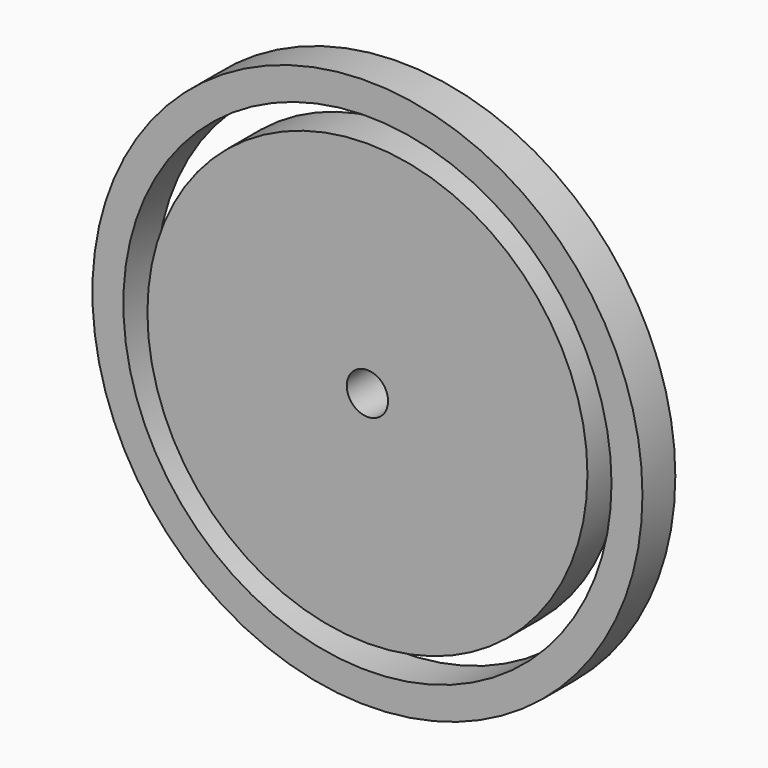
from build123d import *

# Parameters (mm, degrees)
F0_R     = 19.99996
F0_R_2   = 17.74952
F1_DEPTH = 2.98704
F0_R_3   = 15.99946
F0_R_4   = 2.99974
F0_R_5   = 1.50114


with BuildPart() as f1:
    # F0 (on Front) → F1 (new body)
    with BuildSketch(Plane.XZ):
        Circle(F0_R)
        Circle(F0_R_2, mode=Mode.SUBTRACT)
    extrude(amount=F1_DEPTH)


with BuildPart() as f1b:
    # F0 (on Front) → F1, piece 2 (new body)
    with BuildSketch(Plane.XZ):
        Circle(F0_R_3)
        Circle(F0_R_4, mode=Mode.SUBTRACT)
        Circle(F0_R_4)
        Circle(F0_R_5, mode=Mode.SUBTRACT)
    extrude(amount=F1_DEPTH)


solid = Compound([f1.part, f1b.part])
